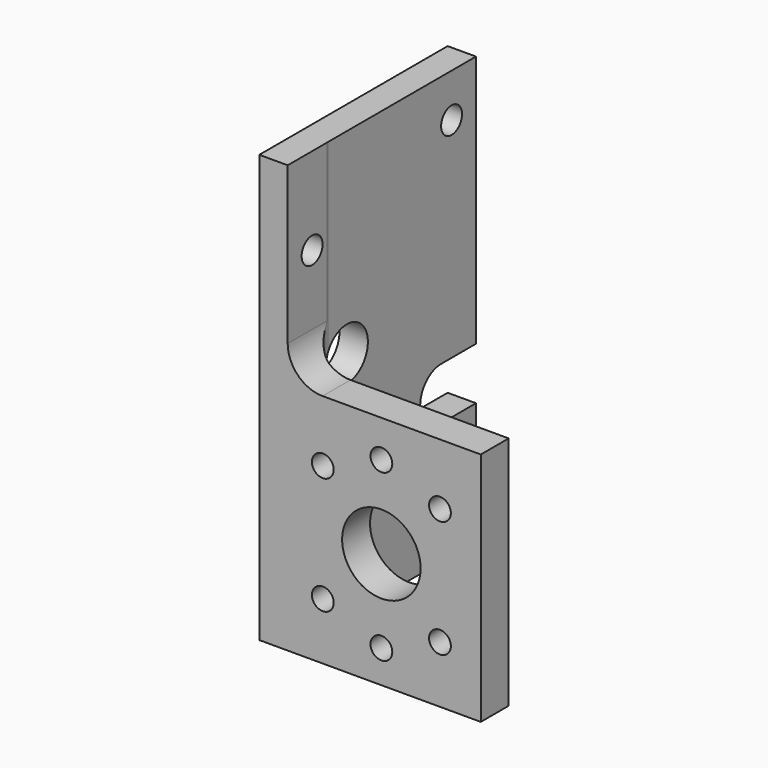
from build123d import *

# Parameters (mm, degrees)
PAD_DEPTH       = 98
SKETCH001_R     = 3
SKETCH001_R_2   = 6
POCKET_DEPTH    = 7
SKETCH002_R     = 9
SKETCH002_R_2   = 2.5
POCKET001_DEPTH = 12


with BuildPart() as part:
    # Sketch → Pad (new body)
    with BuildSketch(Plane.XY):
        with BuildLine():
            Line((6.5, 11.500018), (6.5, 54))
            Line((6.5, 54), (0, 54))
            Line((0, 54), (0, 0))
            Line((0, 0), (50.8, 0))
            Line((50.8, 0), (50.8, 8))
            Line((50.8, 8), (10, 8))
            ThreePointArc((6.5, 11.500018), (7.52512, 9.025133), (10, 8))
        make_face()
    extrude(amount=PAD_DEPTH)

    # Sketch001 → Pocket (cut)
    with BuildSketch(Plane(origin=(0, 0, 0), x_dir=(0, -1, 0), z_dir=(-1, 0, 0))):
        with Locations((-47, 88)):
            Circle(SKETCH001_R)
        with Locations((-7, 78)):
            Circle(SKETCH001_R)
        with Locations((-17, 53)):
            Circle(SKETCH001_R_2)
        with BuildLine():
            Line((-44.000031, 28), (-55, 28))
            Line((-55, 28), (-55, 40))
            Line((-55, 40), (-44.000031, 40))
            ThreePointArc((-44.000031, 28), (-38, 34), (-44.000031, 40))
        make_face()
    extrude(amount=-POCKET_DEPTH, mode=Mode.SUBTRACT)

    # Sketch002 → Pocket001 (cut)
    with BuildSketch(Plane.XZ):
        with Locations((28, 26.5)):
            Circle(SKETCH002_R)
        with Locations((14.564971, 39.935029)):
            Circle(SKETCH002_R_2)
        with Locations((28, 45.5)):
            Circle(SKETCH002_R_2)
        with Locations((41.435029, 39.935029)):
            Circle(SKETCH002_R_2)
        with Locations((14.564971, 13.064971)):
            Circle(SKETCH002_R_2)
        with Locations((28, 7.5)):
            Circle(SKETCH002_R_2)
        with Locations((41.435029, 13.064971)):
            Circle(SKETCH002_R_2)
        with BuildLine():
            Line((6.51, 61.999971), (6.51, 98))
            Line((6.51, 98), (50.8, 98))
            Line((50.8, 98), (50.8, 54))
            Line((50.8, 54), (14.509971, 54))
            ThreePointArc((6.51, 61.999971), (8.853146, 56.343146), (14.509971, 54))
        make_face()
    extrude(amount=-POCKET001_DEPTH, mode=Mode.SUBTRACT)


solid = part.part
